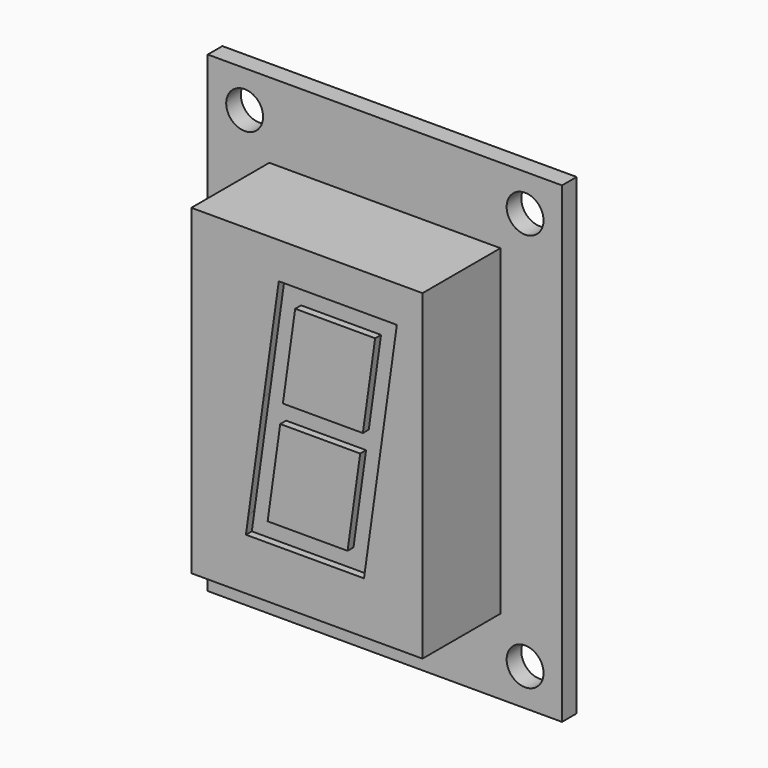
from build123d import *

# Parameters (mm, degrees)
F0_W     = 30.48
F0_H     = 40.64
F1_DEPTH = 1.5748
F2_R     = 1.5875
F3_DEPTH = 1.5758
F4_W     = 19.8882
F4_H     = 27.686
F5_DEPTH = 8.382
F7_DEPTH = 0.635


with BuildPart() as f1:
    # F0 (on Front) → F1 (new body)
    with BuildSketch(Plane.XZ):
        Rectangle(F0_W, F0_H)
    extrude(amount=F1_DEPTH)

    # F2 (on face) → F3 (cut, through all)
    with BuildSketch(Plane.XZ.offset(1.5748)):
        with Locations((-12.065, 17.145)):
            Circle(F2_R)
        with Locations((12.065, 17.145)):
            Circle(F2_R)
        with Locations((-12.065, -17.145)):
            Circle(F2_R)
        with Locations((12.065, -17.145)):
            Circle(F2_R)
    extrude(amount=-F3_DEPTH, mode=Mode.SUBTRACT)

    # F4 (on face) → F5 (join)
    with BuildSketch(Plane.XZ.offset(1.5748)):
        Rectangle(F4_W, F4_H)
    extrude(amount=F5_DEPTH)

    # F6 (on face) → F7 (cut)
    with BuildSketch(Plane.XZ.offset(9.9568)):
        Polygon((-5.022132, -7.7724), (-5.250595, -9.398), (4.909405, -9.398), (7.737403, 10.724247), (-2.422597, 10.724247), (-3.708468, 1.5748), align=None)
        Polygon((-2.297791, -0.0508), (1.2573, -0.0508), (4.581493, -0.0508), (3.496293, -7.7724), (-3.382992, -7.7724), align=None, mode=Mode.SUBTRACT)
        Polygon((4.809956, 1.5748), (1.2573, 1.5748), (-2.069328, 1.5748), (-1.011921, 9.098647), (5.867364, 9.098647), align=None, mode=Mode.SUBTRACT)
        Polygon((-5.024567, -7.7724), (-5.022132, -7.7724), (-3.708468, 1.5748), (-3.710904, 1.5748), align=None)
    extrude(amount=-F7_DEPTH, mode=Mode.SUBTRACT)


solid = f1.part
